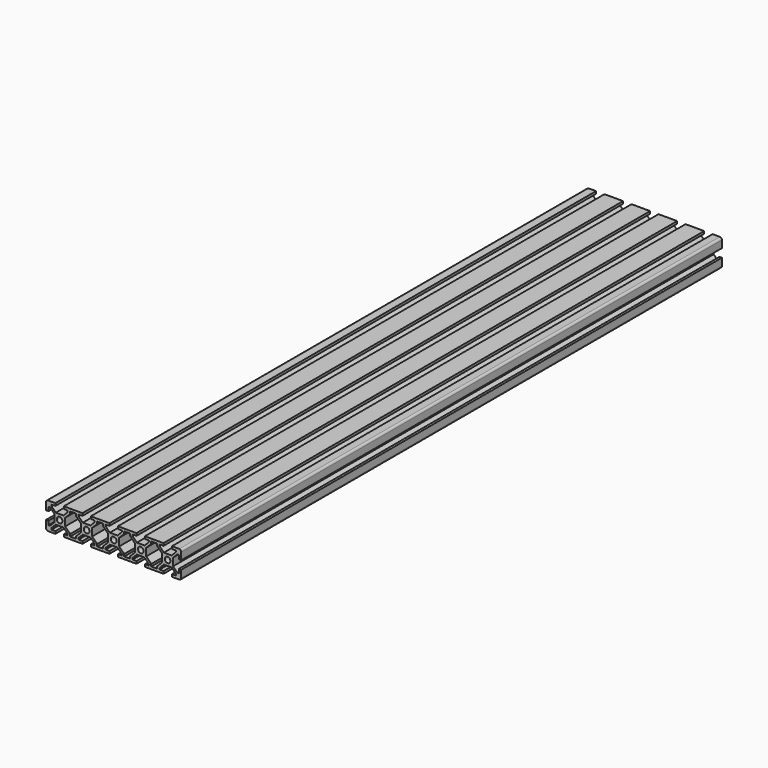
from build123d import *

# Parameters (mm, degrees)
SKETCH_R  = 2.1
PAD_DEPTH = 250
FILLET_R  = 1.5


with BuildPart() as part:
    # Sketch → Pad (new body, symmetric)
    with BuildSketch(Plane.XZ):
        Polygon((-10, 10), (-3.1, 10), (-3.1, 8.2), (-6, 8.2), (-6, 7.06066), (-2.83934, 3.9), (2.83934, 3.9), (6, 7.06066), (6, 8.2), (3.1, 8.2), (3.1, 10), (16.9, 10), (16.9, 8.2), (14, 8.2), (14, 7.06066), (17.16066, 3.9), (22.83934, 3.9), (26, 7.06066), (26, 8.2), (23.1, 8.2), (23.1, 10), (36.9, 10), (36.9, 8.2), (34, 8.2), (34, 7.06066), (37.16066, 3.9), (42.83934, 3.9), (46, 7.06066), (46, 8.2), (43.1, 8.2), (43.1, 10), (56.9, 10), (56.9, 8.2), (54, 8.2), (54, 7.06066), (57.16066, 3.9), (62.83934, 3.9), (66, 7.06066), (66, 8.2), (63.1, 8.2), (63.1, 10), (76.9, 10), (76.9, 8.2), (74, 8.2), (74, 7.06066), (77.16066, 3.9), (82.83934, 3.9), (86, 7.06066), (86, 8.2), (83.1, 8.2), (83.1, 10), (90, 10), (90, 3.1), (88.2, 3.1), (88.2, 6), (87.06066, 6), (83.9, 2.83934), (83.9, -2.83934), (87.06066, -6), (88.2, -6), (88.2, -3.1), (90, -3.1), (90, -10), (83.1, -10), (83.1, -8.2), (86, -8.2), (86, -7.06066), (82.83934, -3.9), (77.16066, -3.9), (74, -7.06066), (74, -8.2), (76.9, -8.2), (76.9, -10), (63.1, -10), (63.1, -8.2), (66, -8.2), (66, -7.06066), (62.83934, -3.9), (57.16066, -3.9), (54, -7.06066), (54, -8.2), (56.9, -8.2), (56.9, -10), (43.1, -10), (43.1, -8.2), (46, -8.2), (46, -7.06066), (42.83934, -3.9), (37.16066, -3.9), (34, -7.06066), (34, -8.2), (36.9, -8.2), (36.9, -10), (23.1, -10), (23.1, -8.2), (26, -8.2), (26, -7.06066), (22.83934, -3.9), (17.16066, -3.9), (14, -7.06066), (14, -8.2), (16.9, -8.2), (16.9, -10), (3.1, -10), (3.1, -8.2), (6, -8.2), (6, -7.06066), (2.83934, -3.9), (-2.83934, -3.9), (-6, -7.06066), (-6, -8.2), (-3.1, -8.2), (-3.1, -10), (-10, -10), (-10, -3.1), (-8.2, -3.1), (-8.2, -6), (-7.06066, -6), (-3.9, -2.83934), (-3.9, 2.83934), (-7.06066, 6), (-8.2, 6), (-8.2, 3.1), (-10, 3.1), align=None)
        Circle(SKETCH_R, mode=Mode.SUBTRACT)
        with Locations((20, 0)):
            Circle(SKETCH_R, mode=Mode.SUBTRACT)
        with Locations((40, 0)):
            Circle(SKETCH_R, mode=Mode.SUBTRACT)
        with Locations((79.9, 0)):
            Circle(SKETCH_R, mode=Mode.SUBTRACT)
        with Locations((60, 0)):
            Circle(SKETCH_R, mode=Mode.SUBTRACT)
        Polygon((7.8, -6.53934), (4.1, -2.83934), (4.1, 2.83934), (7.8, 6.53934), (7.8, 8.2), (12.2, 8.2), (12.2, 6.53934), (15.9, 2.83934), (15.9, -2.83934), (12.2, -6.53934), (12.2, -8.2), (7.8, -8.2), align=None, mode=Mode.SUBTRACT)
        Polygon((27.8, 8.2), (27.8, 6.53934), (24.1, 2.83934), (24.1, -2.83934), (27.8, -6.53934), (27.8, -8.2), (32.2, -8.2), (32.2, -6.53934), (35.9, -2.83934), (35.9, 2.83934), (32.2, 6.53934), (32.2, 8.2), align=None, mode=Mode.SUBTRACT)
        Polygon((47.8, 8.2), (47.8, 6.53934), (44.1, 2.83934), (44.1, -2.83934), (47.8, -6.53934), (47.8, -8.2), (52.2, -8.2), (52.2, -6.53934), (55.9, -2.83934), (55.9, 2.83934), (52.2, 6.53934), (52.2, 8.2), align=None, mode=Mode.SUBTRACT)
        Polygon((72.2, -8.2), (72.2, -6.53934), (75.9, -2.83934), (75.9, 2.83934), (72.2, 6.53934), (72.2, 8.2), (67.8, 8.2), (67.8, 6.53934), (64.1, 2.83934), (64.1, -2.83934), (67.8, -6.53934), (67.8, -8.2), align=None, mode=Mode.SUBTRACT)
    extrude(amount=PAD_DEPTH, both=True)

    # Fillet
    fillet_edges = [part.edges().sort_by_distance(p)[0] for p in [
        (-10, 0, 10),
        (90, 0, 10),
        (90, 0, -10),
        (-10, 0, -10),
    ]]
    fillet(fillet_edges, radius=FILLET_R)


with BuildPart() as part_1:
    # Body placement: moved
    add(part.part.moved(Location((-70, 0, 0))))


solid = part_1.part
